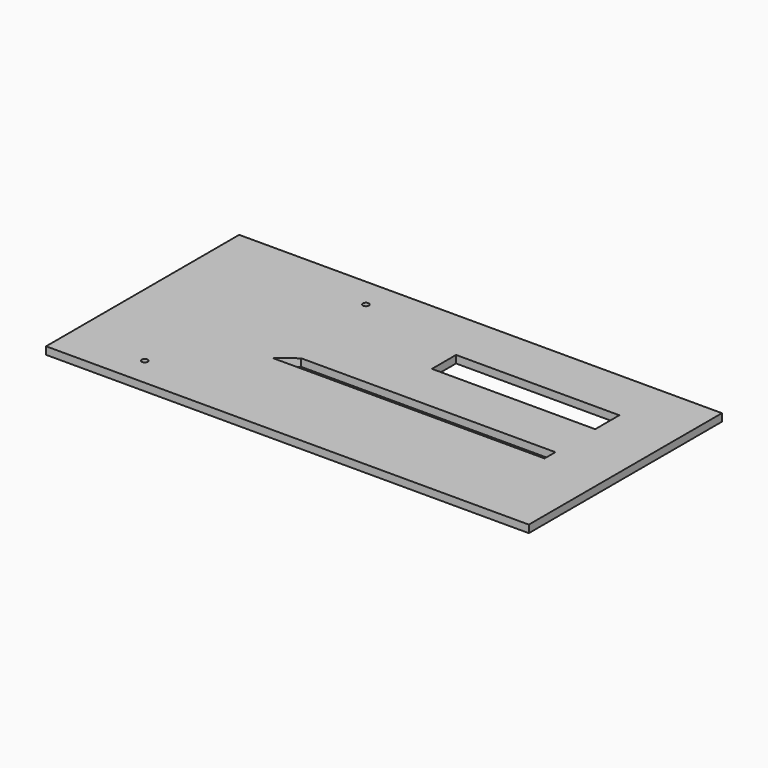
from build123d import *

# Parameters (mm, degrees)
F0_W     = 320
F0_H     = 160
F0_R     = 2
F0_W_2   = 108.241
F0_H_2   = 20
F1_DEPTH = 5


with BuildPart() as f1:
    # F0 (on Top) → F1 (new body)
    with BuildSketch(Plane.XY):
        with Locations((60, -60)):
            Rectangle(F0_W, F0_H)
        with Locations((-50, -120.711)):
            Circle(F0_R, mode=Mode.SUBTRACT)
        Polygon((180, -77), (0, -77), (11.519475, -68), (180, -68), align=None, mode=Mode.SUBTRACT)
        Circle(F0_R, mode=Mode.SUBTRACT)
        with Locations((125.8795, -25)):
            Rectangle(F0_W_2, F0_H_2, mode=Mode.SUBTRACT)
    extrude(amount=F1_DEPTH)


solid = f1.part
